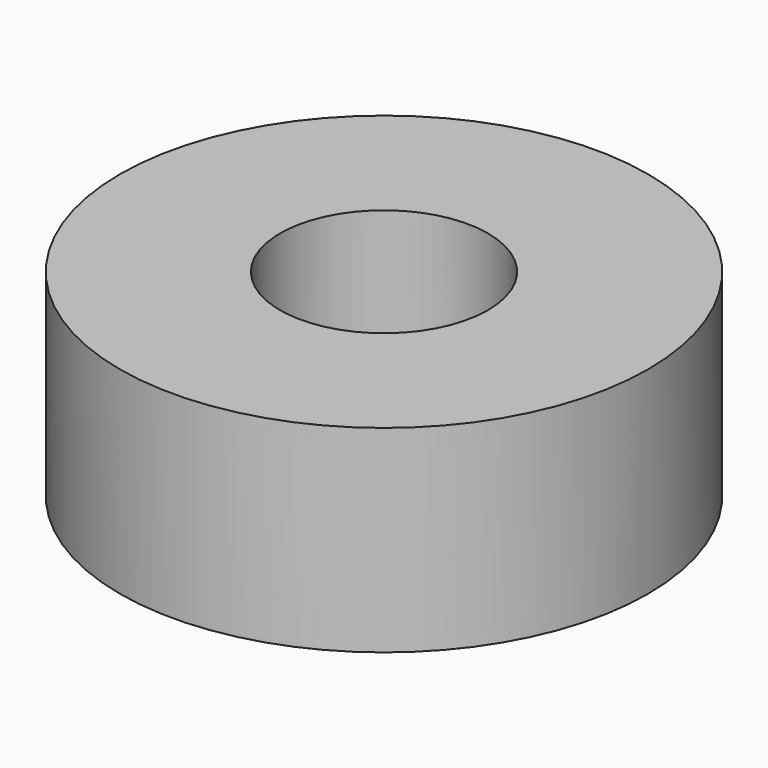
from build123d import *

# Parameters (mm, degrees)
SKETCH_R    = 3.683
PAD_DEPTH   = 2.7559
SKETCH001_R = 1.45
HOLE_DEPTH  = 24.9936


with BuildPart() as part:
    # Sketch → Pad (new body)
    with BuildSketch(Plane.XY):
        Circle(SKETCH_R)
    extrude(amount=PAD_DEPTH)

    # Sketch001 (on Face3 of Pad) → Hole (cut)
    with BuildSketch(Plane.XY.offset(2.7559)):
        Circle(SKETCH001_R)
    extrude(amount=-HOLE_DEPTH, mode=Mode.SUBTRACT)


solid = part.part
